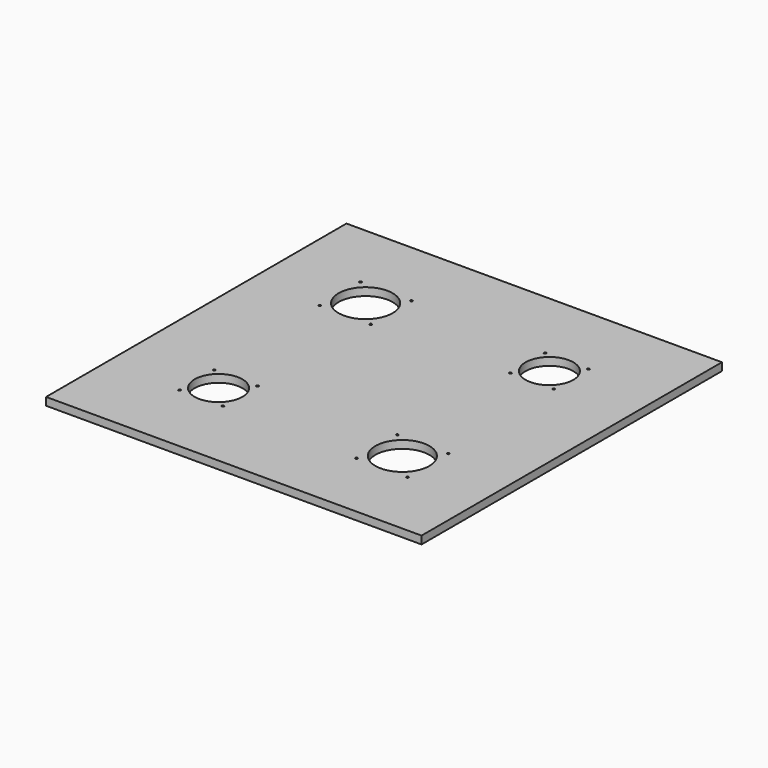
from build123d import *

# Parameters (mm, degrees)
F0_W     = 609.6
F0_H     = 609.6
F0_R     = 1.8288
F0_R_2   = 38.735
F0_R_3   = 43.8658
F1_DEPTH = 12.7


with BuildPart() as f1:
    # F0 (on Top) → F1 (new body)
    with BuildSketch(Plane.XY):
        Rectangle(F0_W, F0_H)
        with Locations((-184.3786, -184.3786)):
            Circle(F0_R, mode=Mode.SUBTRACT)
        with Locations((-114.0714, -184.3786)):
            Circle(F0_R, mode=Mode.SUBTRACT)
        with Locations((-184.3786, -114.0714)):
            Circle(F0_R, mode=Mode.SUBTRACT)
        with Locations((-149.225, -149.225)):
            Circle(F0_R_2, mode=Mode.SUBTRACT)
        with Locations((-114.0714, -114.0714)):
            Circle(F0_R, mode=Mode.SUBTRACT)
        with Locations((107.88015, -190.56985)):
            Circle(F0_R, mode=Mode.SUBTRACT)
        with Locations((190.56985, -190.56985)):
            Circle(F0_R, mode=Mode.SUBTRACT)
        with Locations((149.225, -149.225)):
            Circle(F0_R_3, mode=Mode.SUBTRACT)
        with Locations((107.88015, -107.88015)):
            Circle(F0_R, mode=Mode.SUBTRACT)
        with Locations((190.56985, -107.88015)):
            Circle(F0_R, mode=Mode.SUBTRACT)
        with Locations((-190.56985, 107.88015)):
            Circle(F0_R, mode=Mode.SUBTRACT)
        with Locations((-107.88015, 107.88015)):
            Circle(F0_R, mode=Mode.SUBTRACT)
        with Locations((-149.225, 149.225)):
            Circle(F0_R_3, mode=Mode.SUBTRACT)
        with Locations((-190.56985, 190.56985)):
            Circle(F0_R, mode=Mode.SUBTRACT)
        with Locations((-107.88015, 190.56985)):
            Circle(F0_R, mode=Mode.SUBTRACT)
        with Locations((114.0714, 114.0714)):
            Circle(F0_R, mode=Mode.SUBTRACT)
        with Locations((149.225, 149.225)):
            Circle(F0_R_2, mode=Mode.SUBTRACT)
        with Locations((184.3786, 114.0714)):
            Circle(F0_R, mode=Mode.SUBTRACT)
        with Locations((114.0714, 184.3786)):
            Circle(F0_R, mode=Mode.SUBTRACT)
        with Locations((184.3786, 184.3786)):
            Circle(F0_R, mode=Mode.SUBTRACT)
    extrude(amount=F1_DEPTH)


solid = f1.part
